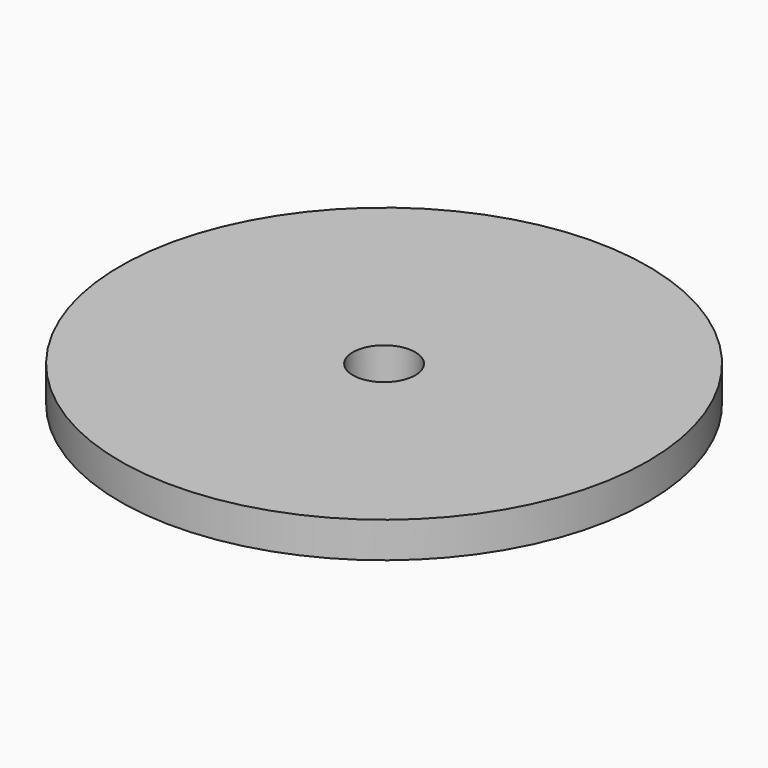
from build123d import *

# Parameters (mm, degrees)
F0_R     = 29.6
F0_R_2   = 9
F0_R_3   = 3.5
F1_DEPTH = 4
F0_R_4   = 1.65
F2_DEPTH = 8


with BuildPart() as f1:
    # F0 (on Top) → F1 (new body)
    with BuildSketch(Plane.XY):
        Circle(F0_R)
        Circle(F0_R_2, mode=Mode.SUBTRACT)
        Circle(F0_R_2)
        Circle(F0_R_3, mode=Mode.SUBTRACT)
    extrude(amount=F1_DEPTH)

    # F0 (on Top) → F2 (join)
    with BuildSketch(Plane.XY):
        Circle(F0_R_2)
        Circle(F0_R_3, mode=Mode.SUBTRACT)
        Circle(F0_R_3)
        Circle(F0_R_4, mode=Mode.SUBTRACT)
    extrude(amount=-F2_DEPTH)


solid = f1.part
